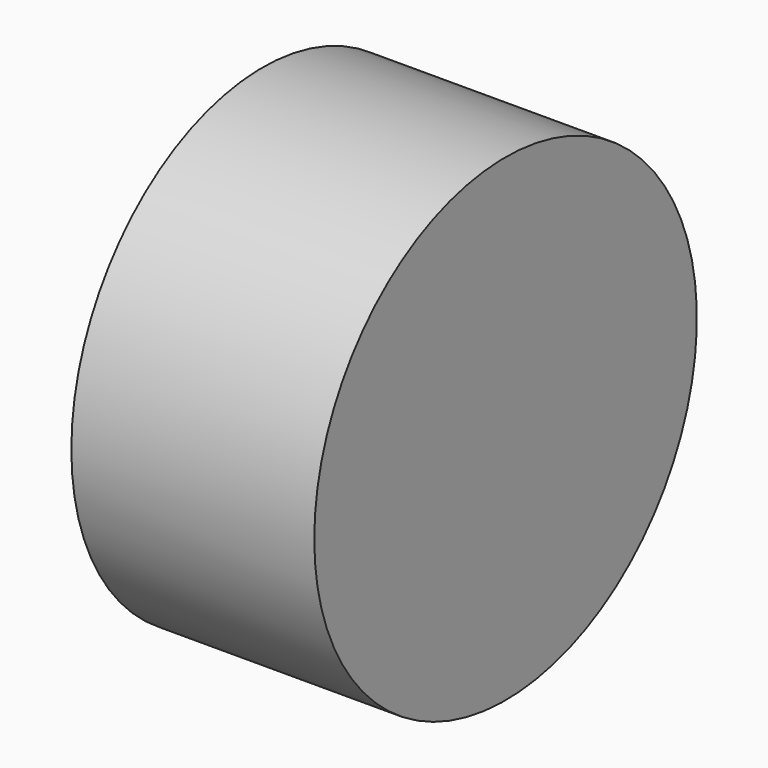
from build123d import *

# Parameters (mm, degrees)
F0_R     = 6.25
F1_DEPTH = 6.35
F3_ANGLE = 90


with BuildPart() as f1:
    # F0 (on Front) → F1 (new body)
    with BuildSketch(Plane.XZ):
        Circle(F0_R)
    extrude(amount=F1_DEPTH)


with BuildPart() as f1_1:
    # F3: moved
    add(f1.part.rotate(Axis((0, 0, 1.882441), (0, 0, -1)), F3_ANGLE))


solid = f1_1.part
